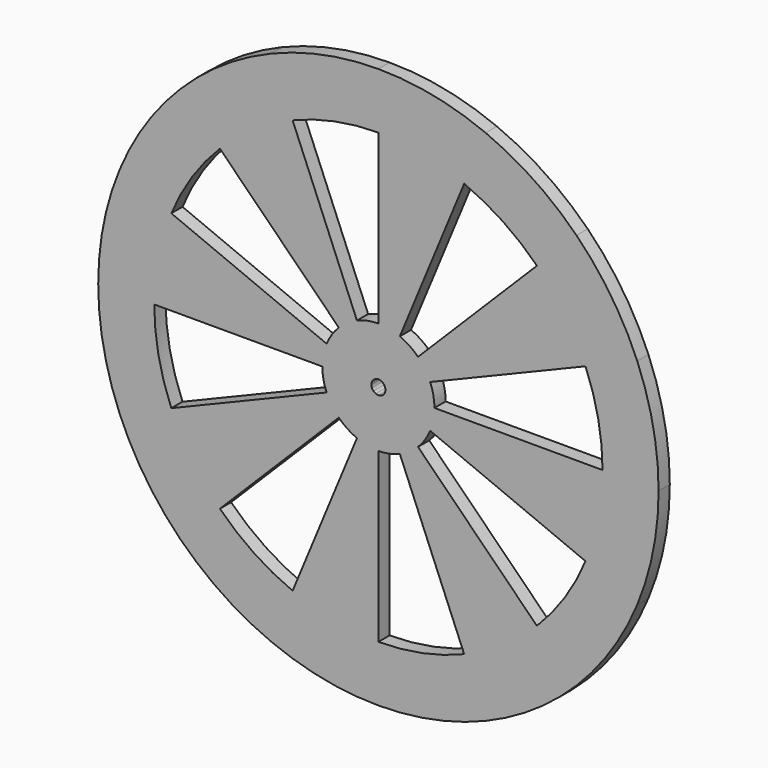
from build123d import *

# Parameters (mm, degrees)
F1_DEPTH = 3.175


with BuildPart() as f1:
    # F0 (on Front) → F1 (new body)
    with BuildSketch(Plane.XZ):
        with BuildLine():
            Line((35.9210244843, 35.9210244843), (44.9012806053, 44.9012806053))
            ThreePointArc((44.9012806053, 44.9012806053), (35.2787097967, 52.7983203812), (24.3003979552, 58.6663503145))
            Line((24.3003979552, 58.6663503145), (19.4403183641, 46.9330802516))
            ThreePointArc((19.4403183641, 46.9330802516), (28.2229678374, 42.238656305), (35.9210244843, 35.9210244843))
        make_face()
        with BuildLine():
            Line((0, 50.8), (0, 63.5))
            ThreePointArc((0, 63.5), (-12.388235448, 62.2798653056), (-24.3003979552, 58.6663503145))
            Line((-24.3003979552, 58.6663503145), (-19.4403183641, 46.9330802516))
            ThreePointArc((-19.4403183641, 46.9330802516), (-9.9105883584, 49.8238922445), (0, 50.8))
        make_face()
        with BuildLine():
            Line((-35.9210244843, 35.9210244843), (-44.9012806053, 44.9012806053))
            ThreePointArc((-44.9012806053, 44.9012806053), (-52.7983203812, 35.2787097967), (-58.6663503145, 24.3003979552))
            Line((-58.6663503145, 24.3003979552), (-46.9330802516, 19.4403183641))
            ThreePointArc((-46.9330802516, 19.4403183641), (-42.238656305, 28.2229678374), (-35.9210244843, 35.9210244843))
        make_face()
        with BuildLine():
            Line((50.8, 0), (63.5, 0))
            ThreePointArc((63.5, 0), (62.2798653056, 12.388235448), (58.6663503145, 24.3003979552))
            Line((58.6663503145, 24.3003979552), (46.9330802516, 19.4403183641))
            ThreePointArc((46.9330802516, 19.4403183641), (49.8238922445, 9.9105883584), (50.8, 0))
        make_face()
        with BuildLine():
            ThreePointArc((-44.9012806053, -44.9012806053), (-35.2787097967, -52.7983203812), (-24.3003979552, -58.6663503145))
            Line((-24.3003979552, -58.6663503145), (-19.4403183641, -46.9330802516))
            ThreePointArc((-19.4403183641, -46.9330802516), (-28.2229678374, -42.238656305), (-35.9210244843, -35.9210244843))
            Line((-35.9210244843, -35.9210244843), (-44.9012806053, -44.9012806053))
        make_face()
        with BuildLine():
            ThreePointArc((0, -63.5), (12.388235448, -62.2798653056), (24.3003979552, -58.6663503145))
            Line((24.3003979552, -58.6663503145), (19.4403183641, -46.9330802516))
            ThreePointArc((19.4403183641, -46.9330802516), (9.9105883584, -49.8238922445), (0, -50.8))
            Line((0, -50.8), (0, -63.5))
        make_face()
        with BuildLine():
            ThreePointArc((44.9012806053, -44.9012806053), (52.7983203812, -35.2787097967), (58.6663503145, -24.3003979552))
            Line((58.6663503145, -24.3003979552), (46.9330802516, -19.4403183641))
            ThreePointArc((46.9330802516, -19.4403183641), (42.238656305, -28.2229678374), (35.9210244843, -35.9210244843))
            Line((35.9210244843, -35.9210244843), (44.9012806053, -44.9012806053))
        make_face()
        with BuildLine():
            Line((-8.9802561211, 8.9802561211), (-1.1225320151, 1.1225320151))
            ThreePointArc((-1.1225320151, 1.1225320151), (-0.8819677449, 1.3199580095), (-0.6075099489, 1.4666587579))
            Line((-0.6075099489, 1.4666587579), (-4.860079591, 11.7332700629))
            ThreePointArc((-4.860079591, 11.7332700629), (-7.0557419593, 10.5596640762), (-8.9802561211, 8.9802561211))
        make_face()
        with BuildLine():
            Line((0.6075099489, 1.4666587579), (4.860079591, 11.7332700629))
            ThreePointArc((4.860079591, 11.7332700629), (2.4776470896, 12.4559730611), (0, 12.7))
            Line((0, 12.7), (0, 1.5875))
            ThreePointArc((0, 1.5875), (0.3097058862, 1.5569966326), (0.6075099489, 1.4666587579))
        make_face()
        with BuildLine():
            Line((1.1225320151, 1.1225320151), (8.9802561211, 8.9802561211))
            ThreePointArc((8.9802561211, 8.9802561211), (7.0557419593, 10.5596640762), (4.860079591, 11.7332700629))
            Line((4.860079591, 11.7332700629), (0.6075099489, 1.4666587579))
            ThreePointArc((0.6075099489, 1.4666587579), (0.8819677449, 1.3199580095), (1.1225320151, 1.1225320151))
        make_face()
        with BuildLine():
            Line((1.4666587579, 0.6075099489), (11.7332700629, 4.860079591))
            ThreePointArc((11.7332700629, 4.860079591), (10.5596640762, 7.0557419593), (8.9802561211, 8.9802561211))
            Line((8.9802561211, 8.9802561211), (1.1225320151, 1.1225320151))
            ThreePointArc((1.1225320151, 1.1225320151), (1.3199580095, 0.8819677449), (1.4666587579, 0.6075099489))
        make_face()
        with BuildLine():
            Line((1.5875, 0), (12.7, 0))
            ThreePointArc((12.7, 0), (12.4559730611, 2.4776470896), (11.7332700629, 4.860079591))
            Line((11.7332700629, 4.860079591), (1.4666587579, 0.6075099489))
            ThreePointArc((1.4666587579, 0.6075099489), (1.5569966326, 0.3097058862), (1.5875, 0))
        make_face()
        with BuildLine():
            ThreePointArc((11.7332700629, -4.860079591), (12.4559730611, -2.4776470896), (12.7, 0))
            Line((12.7, 0), (1.5875, 0))
            ThreePointArc((1.5875, 0), (1.5569966326, -0.3097058862), (1.4666587579, -0.6075099489))
            Line((1.4666587579, -0.6075099489), (11.7332700629, -4.860079591))
        make_face()
        with BuildLine():
            ThreePointArc((4.860079591, -11.7332700629), (7.0557419593, -10.5596640762), (8.9802561211, -8.9802561211))
            Line((8.9802561211, -8.9802561211), (1.1225320151, -1.1225320151))
            ThreePointArc((1.1225320151, -1.1225320151), (0.8819677449, -1.3199580095), (0.6075099489, -1.4666587579))
            Line((0.6075099489, -1.4666587579), (4.860079591, -11.7332700629))
        make_face()
        with BuildLine():
            Line((-8.9802561211, -8.9802561211), (-1.1225320151, -1.1225320151))
            ThreePointArc((-1.1225320151, -1.1225320151), (-1.3199580095, -0.8819677449), (-1.4666587579, -0.6075099489))
            Line((-1.4666587579, -0.6075099489), (-11.7332700629, -4.860079591))
            ThreePointArc((-11.7332700629, -4.860079591), (-10.5596640762, -7.0557419593), (-8.9802561211, -8.9802561211))
        make_face()
        with BuildLine():
            Line((-12.7, 0), (-1.5875, 0))
            ThreePointArc((-1.5875, 0), (-1.5569966326, 0.3097058862), (-1.4666587579, 0.6075099489))
            Line((-1.4666587579, 0.6075099489), (-11.7332700629, 4.860079591))
            ThreePointArc((-11.7332700629, 4.860079591), (-12.4559730611, 2.4776470896), (-12.7, 0))
        make_face()
        with BuildLine():
            ThreePointArc((-1.4666587579, 0.6075099489), (-1.3199580095, 0.8819677449), (-1.1225320151, 1.1225320151))
            Line((-1.1225320151, 1.1225320151), (-8.9802561211, 8.9802561211))
            ThreePointArc((-8.9802561211, 8.9802561211), (-10.5596640762, 7.0557419593), (-11.7332700629, 4.860079591))
            Line((-11.7332700629, 4.860079591), (-1.4666587579, 0.6075099489))
        make_face()
        with BuildLine():
            ThreePointArc((-1.4666587579, -0.6075099489), (-1.5569966326, -0.3097058862), (-1.5875, 0))
            Line((-1.5875, 0), (-12.7, 0))
            ThreePointArc((-12.7, 0), (-12.4559730611, -2.4776470896), (-11.7332700629, -4.860079591))
            Line((-11.7332700629, -4.860079591), (-1.4666587579, -0.6075099489))
        make_face()
        with BuildLine():
            ThreePointArc((-0.6075099489, -1.4666587579), (-0.8819677449, -1.3199580095), (-1.1225320151, -1.1225320151))
            Line((-1.1225320151, -1.1225320151), (-8.9802561211, -8.9802561211))
            ThreePointArc((-8.9802561211, -8.9802561211), (-7.0557419593, -10.5596640762), (-4.860079591, -11.7332700629))
            Line((-4.860079591, -11.7332700629), (-0.6075099489, -1.4666587579))
        make_face()
        with BuildLine():
            Line((0, -12.7), (0, -1.5875))
            ThreePointArc((0, -1.5875), (-0.3097058862, -1.5569966326), (-0.6075099489, -1.4666587579))
            Line((-0.6075099489, -1.4666587579), (-4.860079591, -11.7332700629))
            ThreePointArc((-4.860079591, -11.7332700629), (-2.4776470896, -12.4559730611), (0, -12.7))
        make_face()
        with BuildLine():
            ThreePointArc((0, -12.7), (2.4776470896, -12.4559730611), (4.860079591, -11.7332700629))
            Line((4.860079591, -11.7332700629), (0.6075099489, -1.4666587579))
            ThreePointArc((0.6075099489, -1.4666587579), (0.3097058862, -1.5569966326), (0, -1.5875))
            Line((0, -1.5875), (0, -12.7))
        make_face()
        with BuildLine():
            ThreePointArc((8.9802561211, -8.9802561211), (10.5596640762, -7.0557419593), (11.7332700629, -4.860079591))
            Line((11.7332700629, -4.860079591), (1.4666587579, -0.6075099489))
            ThreePointArc((1.4666587579, -0.6075099489), (1.3199580095, -0.8819677449), (1.1225320151, -1.1225320151))
            Line((1.1225320151, -1.1225320151), (8.9802561211, -8.9802561211))
        make_face()
        with BuildLine():
            ThreePointArc((-0.6075099489, 1.4666587579), (-0.3097058862, 1.5569966326), (0, 1.5875))
            Line((0, 1.5875), (0, 12.7))
            ThreePointArc((0, 12.7), (-2.4776470896, 12.4559730611), (-4.860079591, 11.7332700629))
            Line((-4.860079591, 11.7332700629), (-0.6075099489, 1.4666587579))
        make_face()
        with BuildLine():
            ThreePointArc((-63.5, 0), (-62.2798653056, -12.388235448), (-58.6663503145, -24.3003979552))
            Line((-58.6663503145, -24.3003979552), (-46.9330802516, -19.4403183641))
            ThreePointArc((-46.9330802516, -19.4403183641), (-49.8238922445, -9.9105883584), (-50.8, 0))
            Line((-50.8, 0), (-63.5, 0))
        make_face()
        with BuildLine():
            Line((-19.4403183641, 46.9330802516), (-24.3003979552, 58.6663503145))
            ThreePointArc((-24.3003979552, 58.6663503145), (-35.2787097967, 52.7983203812), (-44.9012806053, 44.9012806053))
            Line((-44.9012806053, 44.9012806053), (-35.9210244843, 35.9210244843))
            ThreePointArc((-35.9210244843, 35.9210244843), (-28.2229678374, 42.238656305), (-19.4403183641, 46.9330802516))
        make_face()
        with BuildLine():
            Line((19.4403183641, 46.9330802516), (24.3003979552, 58.6663503145))
            ThreePointArc((24.3003979552, 58.6663503145), (12.388235448, 62.2798653056), (0, 63.5))
            Line((0, 63.5), (0, 50.8))
            ThreePointArc((0, 50.8), (9.9105883584, 49.8238922445), (19.4403183641, 46.9330802516))
        make_face()
        with BuildLine():
            Line((46.9330802516, 19.4403183641), (58.6663503145, 24.3003979552))
            ThreePointArc((58.6663503145, 24.3003979552), (52.7983203812, 35.2787097967), (44.9012806053, 44.9012806053))
            Line((44.9012806053, 44.9012806053), (35.9210244843, 35.9210244843))
            ThreePointArc((35.9210244843, 35.9210244843), (42.238656305, 28.2229678374), (46.9330802516, 19.4403183641))
        make_face()
        with BuildLine():
            ThreePointArc((24.3003979552, -58.6663503145), (35.2787097967, -52.7983203812), (44.9012806053, -44.9012806053))
            Line((44.9012806053, -44.9012806053), (35.9210244843, -35.9210244843))
            ThreePointArc((35.9210244843, -35.9210244843), (28.2229678374, -42.238656305), (19.4403183641, -46.9330802516))
            Line((19.4403183641, -46.9330802516), (24.3003979552, -58.6663503145))
        make_face()
        with BuildLine():
            ThreePointArc((-24.3003979552, -58.6663503145), (-12.388235448, -62.2798653056), (0, -63.5))
            Line((0, -63.5), (0, -50.8))
            ThreePointArc((0, -50.8), (-9.9105883584, -49.8238922445), (-19.4403183641, -46.9330802516))
            Line((-19.4403183641, -46.9330802516), (-24.3003979552, -58.6663503145))
        make_face()
        with BuildLine():
            ThreePointArc((-58.6663503145, -24.3003979552), (-52.7983203812, -35.2787097967), (-44.9012806053, -44.9012806053))
            Line((-44.9012806053, -44.9012806053), (-35.9210244843, -35.9210244843))
            ThreePointArc((-35.9210244843, -35.9210244843), (-42.238656305, -28.2229678374), (-46.9330802516, -19.4403183641))
            Line((-46.9330802516, -19.4403183641), (-58.6663503145, -24.3003979552))
        make_face()
        with BuildLine():
            ThreePointArc((58.6663503145, -24.3003979552), (62.2798653056, -12.388235448), (63.5, 0))
            Line((63.5, 0), (50.8, 0))
            ThreePointArc((50.8, 0), (49.8238922445, -9.9105883584), (46.9330802516, -19.4403183641))
            Line((46.9330802516, -19.4403183641), (58.6663503145, -24.3003979552))
        make_face()
        with BuildLine():
            Line((-50.8, 0), (-12.7, 0))
            ThreePointArc((-12.7, 0), (-12.4559730611, 2.4776470896), (-11.7332700629, 4.860079591))
            Line((-11.7332700629, 4.860079591), (-46.9330802516, 19.4403183641))
            ThreePointArc((-46.9330802516, 19.4403183641), (-49.8238922445, 9.9105883584), (-50.8, 0))
        make_face()
        with BuildLine():
            Line((-4.860079591, 11.7332700629), (-19.4403183641, 46.9330802516))
            ThreePointArc((-19.4403183641, 46.9330802516), (-28.2229678374, 42.238656305), (-35.9210244843, 35.9210244843))
            Line((-35.9210244843, 35.9210244843), (-8.9802561211, 8.9802561211))
            ThreePointArc((-8.9802561211, 8.9802561211), (-7.0557419593, 10.5596640762), (-4.860079591, 11.7332700629))
        make_face()
        with BuildLine():
            Line((4.860079591, 11.7332700629), (19.4403183641, 46.9330802516))
            ThreePointArc((19.4403183641, 46.9330802516), (9.9105883584, 49.8238922445), (0, 50.8))
            Line((0, 50.8), (0, 12.7))
            ThreePointArc((0, 12.7), (2.4776470896, 12.4559730611), (4.860079591, 11.7332700629))
        make_face()
        with BuildLine():
            Line((11.7332700629, 4.860079591), (46.9330802516, 19.4403183641))
            ThreePointArc((46.9330802516, 19.4403183641), (42.238656305, 28.2229678374), (35.9210244843, 35.9210244843))
            Line((35.9210244843, 35.9210244843), (8.9802561211, 8.9802561211))
            ThreePointArc((8.9802561211, 8.9802561211), (10.5596640762, 7.0557419593), (11.7332700629, 4.860079591))
        make_face()
        with BuildLine():
            ThreePointArc((46.9330802516, -19.4403183641), (49.8238922445, -9.9105883584), (50.8, 0))
            Line((50.8, 0), (12.7, 0))
            ThreePointArc((12.7, 0), (12.4559730611, -2.4776470896), (11.7332700629, -4.860079591))
            Line((11.7332700629, -4.860079591), (46.9330802516, -19.4403183641))
        make_face()
        with BuildLine():
            ThreePointArc((-19.4403183641, -46.9330802516), (-9.9105883584, -49.8238922445), (0, -50.8))
            Line((0, -50.8), (0, -12.7))
            ThreePointArc((0, -12.7), (-2.4776470896, -12.4559730611), (-4.860079591, -11.7332700629))
            Line((-4.860079591, -11.7332700629), (-19.4403183641, -46.9330802516))
        make_face()
        with BuildLine():
            Line((-35.9210244843, -35.9210244843), (-8.9802561211, -8.9802561211))
            ThreePointArc((-8.9802561211, -8.9802561211), (-10.5596640762, -7.0557419593), (-11.7332700629, -4.860079591))
            Line((-11.7332700629, -4.860079591), (-46.9330802516, -19.4403183641))
            ThreePointArc((-46.9330802516, -19.4403183641), (-42.238656305, -28.2229678374), (-35.9210244843, -35.9210244843))
        make_face()
        with BuildLine():
            Line((-46.9330802516, 19.4403183641), (-58.6663503145, 24.3003979552))
            ThreePointArc((-58.6663503145, 24.3003979552), (-62.2798653056, 12.388235448), (-63.5, 0))
            Line((-63.5, 0), (-50.8, 0))
            ThreePointArc((-50.8, 0), (-49.8238922445, 9.9105883584), (-46.9330802516, 19.4403183641))
        make_face()
        with BuildLine():
            ThreePointArc((19.4403183641, -46.9330802516), (28.2229678374, -42.238656305), (35.9210244843, -35.9210244843))
            Line((35.9210244843, -35.9210244843), (8.9802561211, -8.9802561211))
            ThreePointArc((8.9802561211, -8.9802561211), (7.0557419593, -10.5596640762), (4.860079591, -11.7332700629))
            Line((4.860079591, -11.7332700629), (19.4403183641, -46.9330802516))
        make_face()
    extrude(amount=F1_DEPTH)


solid = f1.part
